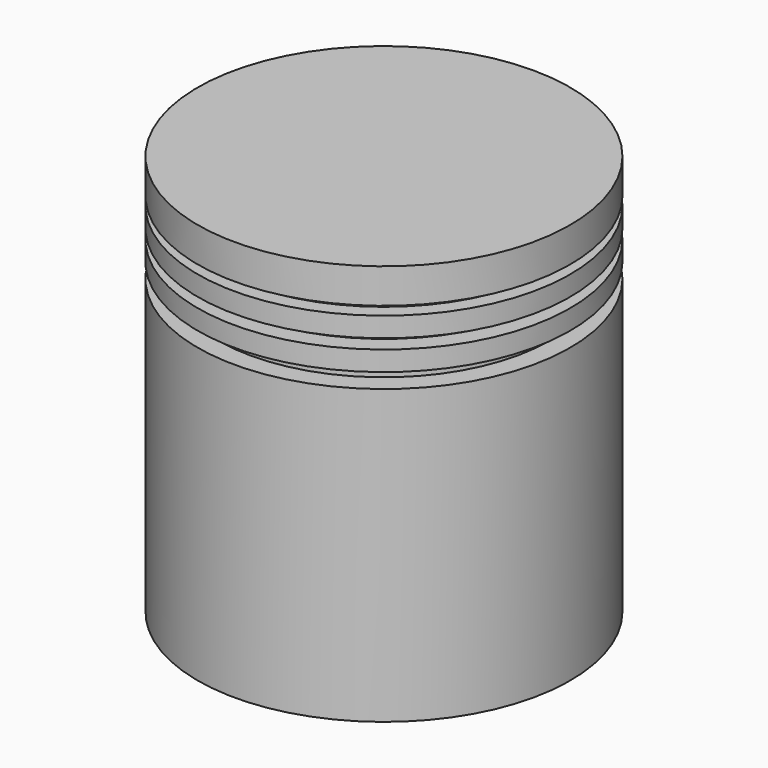
from build123d import *

# Parameters (mm, degrees)
F3_DEPTH = 48


with BuildPart() as f1:
    # F0 (on Right) → F1 (revolve)
    with BuildSketch(Plane.YZ):
        Polygon((37.5, 0), (0, 0), (0, -7), (31, -7), (31, -35.75), (34, -35.75), (34, -75.75), (35.5, -75.75), (35.5, -80.75), (37.5, -80.75), (37.5, -21.75), (33.5, -21.75), (33.5, -18.75), (37.5, -18.75), (37.5, -14.75), (33.9, -14.75), (33.9, -12.75), (37.5, -12.75), (37.5, -8.75), (34.5, -8.75), (34.5, -7), (37.5, -7), align=None)
    revolve(axis=Axis((0, 0, -21.27509), (0, 0, -1)))

    # F2 (on face) → F3 (join)
    with BuildSketch(Plane(origin=(0, 0, -80.75), x_dir=(1, 0, 0), z_dir=(0, 0, -1))):
        with BuildLine():
            Line((-30, -22.5), (-30, 22.5))
            ThreePointArc((-30, 22.5), (-37.5, 0), (-30, -22.5))
        make_face()
        with BuildLine():
            ThreePointArc((30, -22.5), (37.5, 0), (30, 22.5))
            Line((30, 22.5), (30, -22.5))
        make_face()
    extrude(amount=-F3_DEPTH)


solid = f1.part
